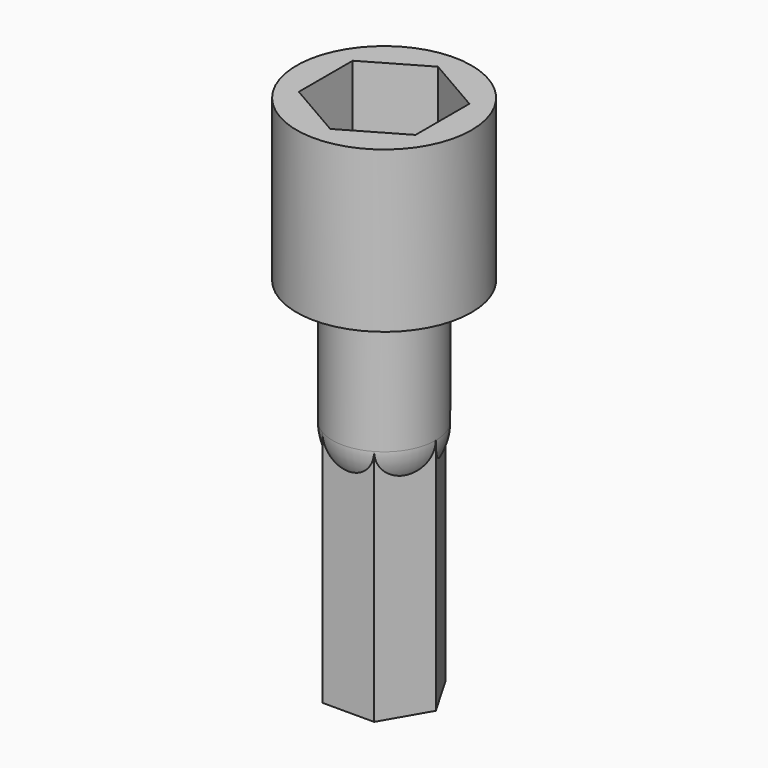
from build123d import *

# Parameters (mm, degrees)
F0_R     = 6.1341
F1_DEPTH = 11.2522
F3_DEPTH = 8.636
F5_DEPTH = 25.4


with BuildPart() as f1:
    # F0 (on Top) → F1 (new body)
    with BuildSketch(Plane.XY):
        Circle(F0_R)
    extrude(amount=F1_DEPTH)

    # F2 (on face) → F3 (cut)
    with BuildSketch(Plane.XY.offset(11.2522)):
        Polygon((4.0894, -2.361016), (4.0894, 2.361016), (0, 4.722032), (-4.0894, 2.361016), (-4.0894, -2.361016), (0, -4.722032), align=None)
        Polygon((4.0894, -2.361016), (4.0894, 2.361016), (0, 4.722032), (-4.0894, 2.361016), (-4.0894, -2.361016), (0, -4.722032), align=None)
    extrude(amount=-F3_DEPTH, mode=Mode.SUBTRACT)

    # F4 (on face) → F5 (join)
    with BuildSketch(Plane(origin=(0, 0, 0), x_dir=(1, 0, 0), z_dir=(0, 0, -1))):
        Polygon((-1.81109, -3.1369), (1.81109, -3.1369), (3.62218, 0), (1.81109, 3.1369), (-1.81109, 3.1369), (-3.62218, 0), align=None)
    extrude(amount=F5_DEPTH)

    # F6 (on Front) → F7 (revolve)
    with BuildSketch(Plane.XZ):
        with BuildLine():
            Line((0, 0), (-3.62218, 0))
            Line((-3.62218, 0), (-3.62218, -8.7122))
            ThreePointArc((-3.62218, -8.7122), (-2.561268, -11.273468), (0, -12.33438))
            Line((0, -12.33438), (0, 0))
        make_face()
    revolve(axis=Axis((0, 0, -6.16719), (0, 0, -1)))


solid = f1.part
